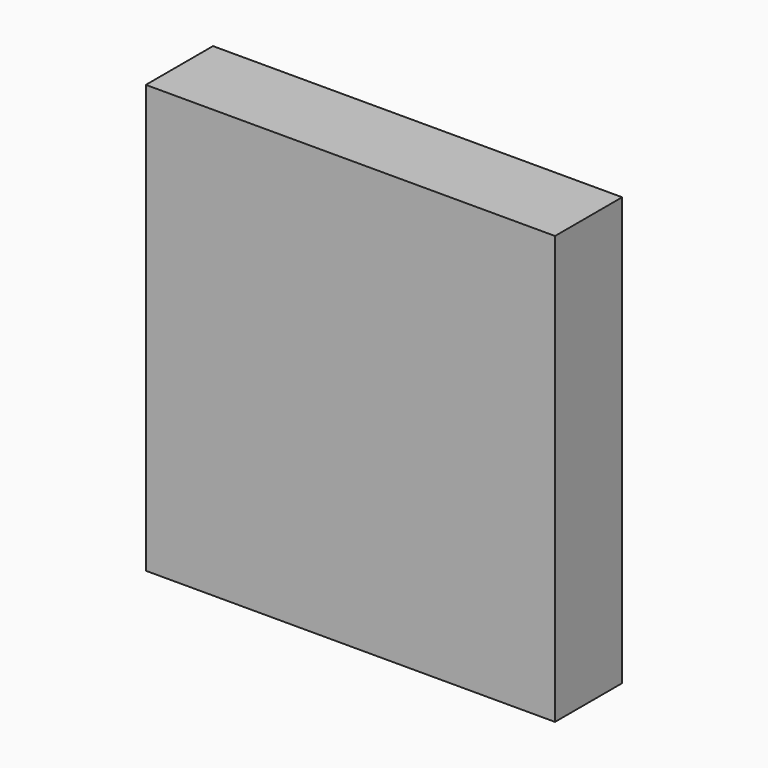
from build123d import *

# Parameters (mm, degrees)
F0_W      = 61.9172882289
F0_H      = 64.7317096591
F1_DEPTH  = 25.4
F1_FACE_W = 61.9172882289
F1_FACE_H = 64.7317096591
F2_W      = 43.8656769693
F2_H      = 53.2593671232
F3_DEPTH  = 12.7


with BuildPart() as f1:
    # F0 (on Front) → F1 (new body)
    with BuildSketch(Plane.XZ):
        with Locations((-7.0360573009, -5.8298744261)):
            Rectangle(F0_W, F0_H)
    extrude(amount=F1_DEPTH)

    # F1_face (on face) + F2 (on face) → F3 (cut)
    with BuildSketch(Plane(origin=(-7.0360573009, -25.4, -5.8298744261), x_dir=(1, 0, 0), z_dir=(0, -1, 0))):
        Rectangle(F1_FACE_W, F1_FACE_H)
    with BuildSketch(Plane.XZ.offset(25.4)):
        with Locations((1.9897483289, -0.0937031582)):
            Rectangle(F2_W, F2_H)
    extrude(amount=-F3_DEPTH, mode=Mode.SUBTRACT)


solid = f1.part
